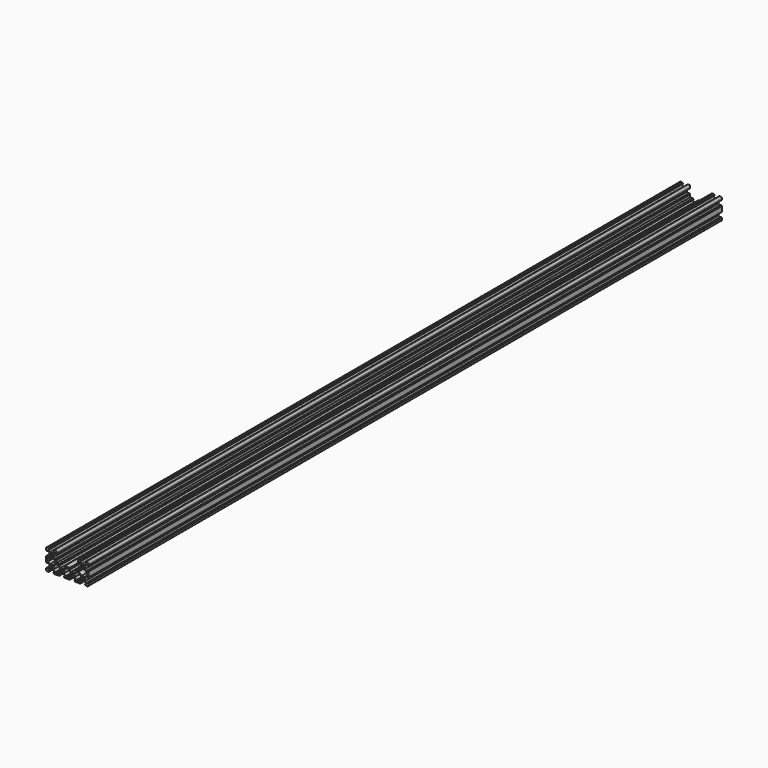
from build123d import *

# Parameters (mm, degrees)
F0_R     = 2.1
F1_DEPTH = 750


with BuildPart() as f1:
    # F0 (on Front) → F1 (new body, symmetric)
    with BuildSketch(Plane.XZ):
        with BuildLine():
            Line((-35.1870013917, 20.0000013917), (-38.2000013917, 20.0000013917))
            ThreePointArc((-38.2000013917, 20.0000013917), (-39.4727935979, 19.4727935979), (-40.0000013917, 18.2000013917))
            Line((-40.0000013917, 18.2000013917), (-40.0000013917, 15.1865006959))
            Line((-40.0000013917, 15.1865006959), (-38.2000013917, 13.3865006959))
            Line((-38.2000013917, 13.3865006959), (-38.2000013917, 15.339341993))
            Line((-38.2000013917, 15.339341993), (-36.4000013917, 15.339341993))
            Line((-36.4000013917, 15.339341993), (-33.9001600946, 12.8395006959))
            Line((-33.9001600946, 12.8395006959), (-33.9001600946, 7.1605006959))
            Line((-33.9001600946, 7.1605006959), (-36.8606607904, 4.2))
            Line((-36.8606607904, 4.2), (-38.2000013917, 4.2))
            Line((-38.2000013917, 4.2), (-38.2000013917, 6.6135006959))
            Line((-38.2000013917, 6.6135006959), (-40.0000013917, 4.8135006959))
            Line((-40.0000013917, 4.8135006959), (-40.0000013917, -4.8135006959))
            Line((-40.0000013917, -4.8135006959), (-38.2000013917, -6.6135006959))
            Line((-38.2000013917, -6.6135006959), (-38.2000013917, -4.2))
            Line((-38.2000013917, -4.2), (-36.8606607904, -4.2))
            Line((-36.8606607904, -4.2), (-33.9001600946, -7.1605006959))
            Line((-33.9001600946, -7.1605006959), (-33.9001600946, -12.8395006959))
            Line((-33.9001600946, -12.8395006959), (-36.4000013917, -15.339341993))
            Line((-36.4000013917, -15.339341993), (-38.2000013917, -15.339341993))
            Line((-38.2000013917, -15.339341993), (-38.2000013917, -13.3865006959))
            Line((-38.2000013917, -13.3865006959), (-40.0000013917, -15.1865006959))
            Line((-40.0000013917, -15.1865006959), (-40.0000013917, -18.2000013917))
            ThreePointArc((-40.0000013917, -18.2000013917), (-39.4727935979, -19.4727935979), (-38.2000013917, -20.0000013917))
            Line((-38.2000013917, -20.0000013917), (-35.1870013917, -20.0000013917))
            Line((-35.1870013917, -20.0000013917), (-33.3870013917, -18.2000013917))
            Line((-33.3870013917, -18.2000013917), (-35.339341993, -18.2000013917))
            Line((-35.339341993, -18.2000013917), (-35.339341993, -16.4000013917))
            Line((-35.339341993, -16.4000013917), (-32.8395006959, -13.9001600946))
            Line((-32.8395006959, -13.9001600946), (-27.1605006959, -13.9001600946))
            Line((-27.1605006959, -13.9001600946), (-24.2, -16.8606607904))
            Line((-24.2, -16.8606607904), (-24.2, -18.2000013917))
            Line((-24.2, -18.2000013917), (-26.6140013917, -18.2000013917))
            Line((-26.6140013917, -18.2000013917), (-24.8140013917, -20.0000013917))
            Line((-24.8140013917, -20.0000013917), (-15.1859986083, -20.0000013917))
            Line((-15.1859986083, -20.0000013917), (-13.3859986083, -18.2000013917))
            Line((-13.3859986083, -18.2000013917), (-15.8, -18.2000013917))
            Line((-15.8, -18.2000013917), (-15.8, -16.8606607904))
            Line((-15.8, -16.8606607904), (-12.8394993041, -13.9001600946))
            Line((-12.8394993041, -13.9001600946), (-7.1604993041, -13.9001600946))
            Line((-7.1604993041, -13.9001600946), (-4.1999986083, -16.8606607904))
            Line((-4.1999986083, -16.8606607904), (-4.1999986083, -18.2000013917))
            Line((-4.1999986083, -18.2000013917), (-6.6129986083, -18.2000013917))
            Line((-6.6129986083, -18.2000013917), (-4.8129986083, -20.0000013917))
            Line((-4.8129986083, -20.0000013917), (4.8129986083, -20.0000013917))
            Line((4.8129986083, -20.0000013917), (6.6129986083, -18.2000013917))
            Line((6.6129986083, -18.2000013917), (4.1999986083, -18.2000013917))
            Line((4.1999986083, -18.2000013917), (4.1999986083, -16.8606607904))
            Line((4.1999986083, -16.8606607904), (7.1604993041, -13.9001600946))
            Line((7.1604993041, -13.9001600946), (12.8394993041, -13.9001600946))
            Line((12.8394993041, -13.9001600946), (15.8, -16.8606607904))
            Line((15.8, -16.8606607904), (15.8, -18.2000013917))
            Line((15.8, -18.2000013917), (13.3859986083, -18.2000013917))
            Line((13.3859986083, -18.2000013917), (15.1859986083, -20.0000013917))
            Line((15.1859986083, -20.0000013917), (24.8140013917, -20.0000013917))
            Line((24.8140013917, -20.0000013917), (26.6140013917, -18.2000013917))
            Line((26.6140013917, -18.2000013917), (24.2, -18.2000013917))
            Line((24.2, -18.2000013917), (24.2, -16.8606607904))
            Line((24.2, -16.8606607904), (27.1605006959, -13.9001600946))
            Line((27.1605006959, -13.9001600946), (32.8395006959, -13.9001600946))
            Line((32.8395006959, -13.9001600946), (35.339341993, -16.4000013917))
            Line((35.339341993, -16.4000013917), (35.339341993, -18.2000013917))
            Line((35.339341993, -18.2000013917), (33.3870013917, -18.2000013917))
            Line((33.3870013917, -18.2000013917), (35.1870013917, -20.0000013917))
            Line((35.1870013917, -20.0000013917), (38.2000013917, -20.0000013917))
            ThreePointArc((38.2000013917, -20.0000013917), (39.4727935979, -19.4727935979), (40.0000013917, -18.2000013917))
            Line((40.0000013917, -18.2000013917), (40.0000013917, -15.1865006959))
            Line((40.0000013917, -15.1865006959), (38.2000013917, -13.3865006959))
            Line((38.2000013917, -13.3865006959), (38.2000013917, -15.339341993))
            Line((38.2000013917, -15.339341993), (36.4000013917, -15.339341993))
            Line((36.4000013917, -15.339341993), (33.9001600946, -12.8395006959))
            Line((33.9001600946, -12.8395006959), (33.9001600946, -7.1605006959))
            Line((33.9001600946, -7.1605006959), (36.8606607904, -4.2))
            Line((36.8606607904, -4.2), (38.2000013917, -4.2))
            Line((38.2000013917, -4.2), (38.2000013917, -6.6135006959))
            Line((38.2000013917, -6.6135006959), (40.0000013917, -4.8135006959))
            Line((40.0000013917, -4.8135006959), (40.0000013917, 4.8135006959))
            Line((40.0000013917, 4.8135006959), (38.2000013917, 6.6135006959))
            Line((38.2000013917, 6.6135006959), (38.2000013917, 4.2))
            Line((38.2000013917, 4.2), (36.8606607904, 4.2))
            Line((36.8606607904, 4.2), (33.9001600946, 7.1605006959))
            Line((33.9001600946, 7.1605006959), (33.9001600946, 12.8395006959))
            Line((33.9001600946, 12.8395006959), (36.4000013917, 15.339341993))
            Line((36.4000013917, 15.339341993), (38.2000013917, 15.339341993))
            Line((38.2000013917, 15.339341993), (38.2000013917, 13.3865006959))
            Line((38.2000013917, 13.3865006959), (40.0000013917, 15.1865006959))
            Line((40.0000013917, 15.1865006959), (40.0000013917, 18.2000013917))
            ThreePointArc((40.0000013917, 18.2000013917), (39.4727935979, 19.4727935979), (38.2000013917, 20.0000013917))
            Line((38.2000013917, 20.0000013917), (35.1870013917, 20.0000013917))
            Line((35.1870013917, 20.0000013917), (33.3870013917, 18.2000013917))
            Line((33.3870013917, 18.2000013917), (35.339341993, 18.2000013917))
            Line((35.339341993, 18.2000013917), (35.339341993, 16.4000013917))
            Line((35.339341993, 16.4000013917), (32.8395006959, 13.9001600946))
            Line((32.8395006959, 13.9001600946), (27.1605006959, 13.9001600946))
            Line((27.1605006959, 13.9001600946), (24.6606593987, 16.4000013917))
            Line((24.6606593987, 16.4000013917), (24.6606593987, 18.2000013917))
            Line((24.6606593987, 18.2000013917), (26.6140013917, 18.2000013917))
            Line((26.6140013917, 18.2000013917), (24.8140013917, 20.0000013917))
            Line((24.8140013917, 20.0000013917), (21.8, 20.0000013917))
            ThreePointArc((21.8, 20.0000013917), (20.5272077939, 19.4727935979), (20, 18.2000013917))
            Line((20, 18.2000013917), (20, 15.186))
            Line((20, 15.186), (21.8, 13.386))
            Line((21.8, 13.386), (21.8, 15.339341993))
            Line((21.8, 15.339341993), (23.6, 15.339341993))
            Line((23.6, 15.339341993), (26.0998412971, 12.8395006959))
            Line((26.0998412971, 12.8395006959), (26.0998412971, 7.1605006959))
            Line((26.0998412971, 7.1605006959), (23.1393406013, 4.2))
            Line((23.1393406013, 4.2), (21.8, 4.2))
            Line((21.8, 4.2), (21.8, 6.613))
            Line((21.8, 6.613), (20, 4.813))
            Line((20, 4.813), (20, 0))
            Line((20, 0), (15.1859986083, 0))
            Line((15.1859986083, 0), (13.3859986083, -1.8))
            Line((13.3859986083, -1.8), (15.8, -1.8))
            Line((15.8, -1.8), (15.8, -3.1393406013))
            Line((15.8, -3.1393406013), (12.8394993041, -6.0998412971))
            Line((12.8394993041, -6.0998412971), (7.1604993041, -6.0998412971))
            Line((7.1604993041, -6.0998412971), (4.1999986083, -3.1393406013))
            Line((4.1999986083, -3.1393406013), (4.1999986083, -1.8))
            Line((4.1999986083, -1.8), (6.6129986083, -1.8))
            Line((6.6129986083, -1.8), (4.8129986083, 0))
            Line((4.8129986083, 0), (-4.8129986083, 0))
            Line((-4.8129986083, 0), (-6.6129986083, -1.8))
            Line((-6.6129986083, -1.8), (-4.1999986083, -1.8))
            Line((-4.1999986083, -1.8), (-4.1999986083, -3.1393406013))
            Line((-4.1999986083, -3.1393406013), (-7.1604993041, -6.0998412971))
            Line((-7.1604993041, -6.0998412971), (-12.8394993041, -6.0998412971))
            Line((-12.8394993041, -6.0998412971), (-15.8, -3.1393406013))
            Line((-15.8, -3.1393406013), (-15.8, -1.8))
            Line((-15.8, -1.8), (-13.3859986083, -1.8))
            Line((-13.3859986083, -1.8), (-15.1859986083, 0))
            Line((-15.1859986083, 0), (-20, 0))
            Line((-20, 0), (-20, 4.813))
            Line((-20, 4.813), (-21.8, 6.613))
            Line((-21.8, 6.613), (-21.8, 4.2))
            Line((-21.8, 4.2), (-23.1393406013, 4.2))
            Line((-23.1393406013, 4.2), (-26.0998412971, 7.1605006959))
            Line((-26.0998412971, 7.1605006959), (-26.0998412971, 12.8395006959))
            Line((-26.0998412971, 12.8395006959), (-23.6, 15.339341993))
            Line((-23.6, 15.339341993), (-21.8, 15.339341993))
            Line((-21.8, 15.339341993), (-21.8, 13.386))
            Line((-21.8, 13.386), (-20, 15.186))
            Line((-20, 15.186), (-20, 18.2000013917))
            ThreePointArc((-20, 18.2000013917), (-20.5272077939, 19.4727935979), (-21.8, 20.0000013917))
            Line((-21.8, 20.0000013917), (-24.8140013917, 20.0000013917))
            Line((-24.8140013917, 20.0000013917), (-26.6140013917, 18.2000013917))
            Line((-26.6140013917, 18.2000013917), (-24.6606593987, 18.2000013917))
            Line((-24.6606593987, 18.2000013917), (-24.6606593987, 16.4000013917))
            Line((-24.6606593987, 16.4000013917), (-27.1605006959, 13.9001600946))
            Line((-27.1605006959, 13.9001600946), (-32.8395006959, 13.9001600946))
            Line((-32.8395006959, 13.9001600946), (-35.339341993, 16.4000013917))
            Line((-35.339341993, 16.4000013917), (-35.339341993, 18.2000013917))
            Line((-35.339341993, 18.2000013917), (-33.3870013917, 18.2000013917))
            Line((-33.3870013917, 18.2000013917), (-35.1870013917, 20.0000013917))
        make_face()
        with Locations((-30.0000006959, -10.0000006959)):
            Circle(F0_R, mode=Mode.SUBTRACT)
        Polygon((-26.0998412971, -7.1605006959), (-20.7393406013, -1.8), (-17.3, -1.8), (-17.3, -3.7606593987), (-13.9001587029, -7.1605006959), (-13.9001587029, -12.8395006959), (-17.3, -16.239341993), (-17.3, -18.2000013917), (-22.7, -18.2000013917), (-22.7, -16.239341993), (-26.0998412971, -12.8395006959), align=None, mode=Mode.SUBTRACT)
        with Locations((-9.9999993041, -10.0000006959)):
            Circle(F0_R, mode=Mode.SUBTRACT)
        Polygon((-2.6999986083, -3.7606593987), (-2.6999986083, -1.8), (2.6999986083, -1.8), (2.6999986083, -3.7606593987), (6.0998399054, -7.1605006959), (6.0998399054, -12.8395006959), (2.6999986083, -16.239341993), (2.6999986083, -18.2000013917), (-2.6999986083, -18.2000013917), (-2.6999986083, -16.239341993), (-6.0998399054, -12.8395006959), (-6.0998399054, -7.1605006959), align=None, mode=Mode.SUBTRACT)
        with Locations((9.9999993041, -10.0000006959)):
            Circle(F0_R, mode=Mode.SUBTRACT)
        Polygon((22.7, -18.2000013917), (17.3, -18.2000013917), (17.3, -16.239341993), (13.9001587029, -12.8395006959), (13.9001587029, -7.1605006959), (17.3, -3.7606593987), (17.3, -1.8), (20.7393406013, -1.8), (26.0998412971, -7.1605006959), (26.0998412971, -12.8395006959), (22.7, -16.239341993), align=None, mode=Mode.SUBTRACT)
        with Locations((30.0000006959, -10.0000006959)):
            Circle(F0_R, mode=Mode.SUBTRACT)
        Polygon((-38.2000013917, 2.7), (-36.239341993, 2.7), (-32.8395006959, 6.0998412971), (-27.1605006959, 6.0998412971), (-23.7606593987, 2.7), (-21.8, 2.7), (-21.8, -0.7393406013), (-27.1605006959, -6.0998412971), (-32.8395006959, -6.0998412971), (-36.239341993, -2.7), (-38.2000013917, -2.7), align=None, mode=Mode.SUBTRACT)
        with Locations((-30.0000006959, 10.0000006959)):
            Circle(F0_R, mode=Mode.SUBTRACT)
        Polygon((27.1605006959, -6.0998412971), (21.8, -0.7393406013), (21.8, 2.7), (23.7606593987, 2.7), (27.1605006959, 6.0998412971), (32.8395006959, 6.0998412971), (36.239341993, 2.7), (38.2000013917, 2.7), (38.2000013917, -2.7), (36.239341993, -2.7), (32.8395006959, -6.0998412971), align=None, mode=Mode.SUBTRACT)
        with Locations((30.0000006959, 10.0000006959)):
            Circle(F0_R, mode=Mode.SUBTRACT)
    extrude(amount=F1_DEPTH, both=True)


solid = f1.part
